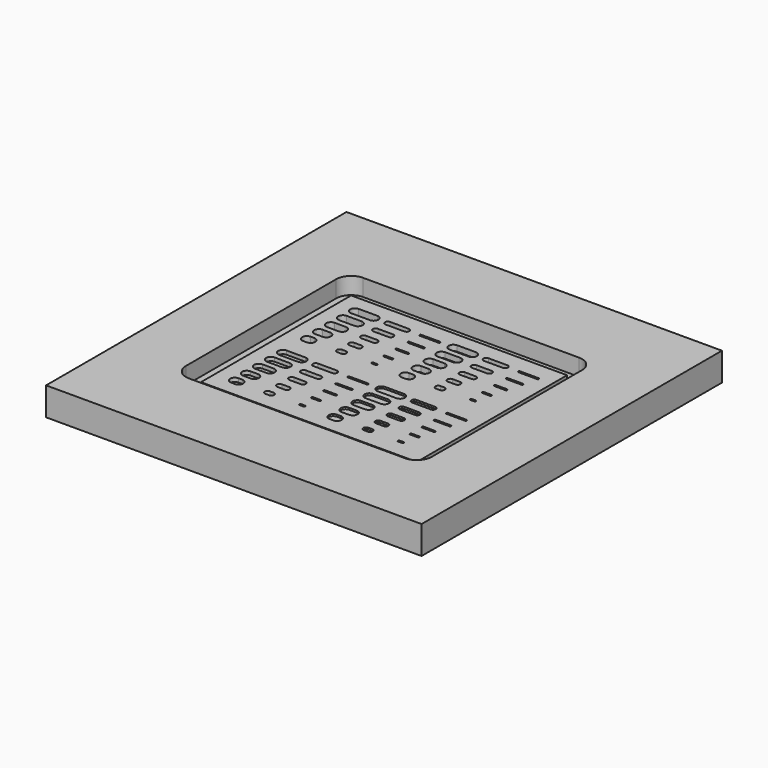
from build123d import *

# Parameters (mm, degrees)
F0_W     = 20
F0_H     = 20
F1_DEPTH = 1
F2_W     = 11.5
F2_H     = 10
F3_DEPTH = 0.4
F4_DEPTH = 0.3
F5_DEPTH = 0.2
F6_DEPTH = 0.1
F2_W_2   = 20
F2_H_2   = 20
F7_DEPTH = 0.5


with BuildPart() as f1:
    # F0 (on Top) → F1 (new body)
    with BuildSketch(Plane.XY):
        Rectangle(F0_W, F0_H)
    extrude(amount=-F1_DEPTH)

    # F2 (on face) → F3 (cut)
    with BuildSketch(Plane.XY):
        with BuildLine():
            ThreePointArc((6.55, 5), (6.315685, 5.565685), (5.75, 5.8))
            Line((5.75, 5.8), (-5.75, 5.8))
            ThreePointArc((-5.75, 5.8), (-6.315685, 5.565685), (-6.55, 5))
            Line((-6.55, 5), (-6.55, -5))
            ThreePointArc((-6.55, -5), (-6.315685, -5.565685), (-5.75, -5.8))
            Line((-5.75, -5.8), (5.75, -5.8))
            ThreePointArc((5.75, -5.8), (6.315685, -5.565685), (6.55, -5))
            Line((6.55, -5), (6.55, 5))
        make_face()
        Rectangle(F2_W, F2_H, mode=Mode.SUBTRACT)
        with BuildLine():
            ThreePointArc((-4.75, 4.25), (-5, 4), (-4.75, 3.75))
            Line((-4.75, 3.75), (-3.75, 3.75))
            ThreePointArc((-3.75, 3.75), (-3.5, 4), (-3.75, 4.25))
            Line((-3.75, 4.25), (-4.75, 4.25))
        make_face()
        with BuildLine():
            ThreePointArc((-4.75, 3.45), (-5, 3.2), (-4.75, 2.95))
            Line((-4.75, 2.95), (-3.95, 2.95))
            ThreePointArc((-3.95, 2.95), (-3.7, 3.2), (-3.95, 3.45))
            Line((-3.95, 3.45), (-4.75, 3.45))
        make_face()
        with BuildLine():
            ThreePointArc((-4.75, 2.65), (-5, 2.4), (-4.75, 2.15))
            Line((-4.75, 2.15), (-4.15, 2.15))
            ThreePointArc((-4.15, 2.15), (-3.9, 2.4), (-4.15, 2.65))
            Line((-4.15, 2.65), (-4.75, 2.65))
        make_face()
        with BuildLine():
            ThreePointArc((-4.75, 1.85), (-5, 1.6), (-4.75, 1.35))
            Line((-4.75, 1.35), (-4.35, 1.35))
            ThreePointArc((-4.35, 1.35), (-4.1, 1.6), (-4.35, 1.85))
            Line((-4.35, 1.85), (-4.75, 1.85))
        make_face()
        with BuildLine():
            ThreePointArc((-4.75, 1.05), (-5, 0.8), (-4.75, 0.55))
            Line((-4.75, 0.55), (-4.55, 0.55))
            ThreePointArc((-4.55, 0.55), (-4.3, 0.8), (-4.55, 1.05))
            Line((-4.55, 1.05), (-4.75, 1.05))
        make_face()
        with BuildLine():
            ThreePointArc((-3, 4.15), (-3.15, 4), (-3, 3.85))
            Line((-3, 3.85), (-2, 3.85))
            ThreePointArc((-2, 3.85), (-1.85, 4), (-2, 4.15))
            Line((-2, 4.15), (-3, 4.15))
        make_face()
        with BuildLine():
            ThreePointArc((-3, 3.35), (-3.15, 3.2), (-3, 3.05))
            Line((-3, 3.05), (-2.2, 3.05))
            ThreePointArc((-2.2, 3.05), (-2.05, 3.2), (-2.2, 3.35))
            Line((-2.2, 3.35), (-3, 3.35))
        make_face()
        with BuildLine():
            ThreePointArc((-3, 2.55), (-3.15, 2.4), (-3, 2.25))
            Line((-3, 2.25), (-2.4, 2.25))
            ThreePointArc((-2.4, 2.25), (-2.25, 2.4), (-2.4, 2.55))
            Line((-2.4, 2.55), (-3, 2.55))
        make_face()
        with BuildLine():
            ThreePointArc((-3, 1.75), (-3.15, 1.6), (-3, 1.45))
            Line((-3, 1.45), (-2.6, 1.45))
            ThreePointArc((-2.6, 1.45), (-2.45, 1.6), (-2.6, 1.75))
            Line((-2.6, 1.75), (-3, 1.75))
        make_face()
        with BuildLine():
            ThreePointArc((-3, 0.95), (-3.15, 0.8), (-3, 0.65))
            Line((-3, 0.65), (-2.8, 0.65))
            ThreePointArc((-2.8, 0.65), (-2.65, 0.8), (-2.8, 0.95))
            Line((-2.8, 0.95), (-3, 0.95))
        make_face()
        with BuildLine():
            ThreePointArc((-1.25, 0.855), (-1.305, 0.8), (-1.25, 0.745))
            Line((-1.25, 0.745), (-1.05, 0.745))
            ThreePointArc((-1.05, 0.745), (-0.995, 0.8), (-1.05, 0.855))
            Line((-1.05, 0.855), (-1.25, 0.855))
        make_face()
        with BuildLine():
            ThreePointArc((-1.25, 1.655), (-1.305, 1.6), (-1.25, 1.545))
            Line((-1.25, 1.545), (-0.85, 1.545))
            ThreePointArc((-0.85, 1.545), (-0.795, 1.6), (-0.85, 1.655))
            Line((-0.85, 1.655), (-1.25, 1.655))
        make_face()
        with BuildLine():
            ThreePointArc((-1.25, 2.455), (-1.305, 2.4), (-1.25, 2.345))
            Line((-1.25, 2.345), (-0.65, 2.345))
            ThreePointArc((-0.65, 2.345), (-0.595, 2.4), (-0.65, 2.455))
            Line((-0.65, 2.455), (-1.25, 2.455))
        make_face()
        with BuildLine():
            ThreePointArc((-1.25, 3.255), (-1.305, 3.2), (-1.25, 3.145))
            Line((-1.25, 3.145), (-0.45, 3.145))
            ThreePointArc((-0.45, 3.145), (-0.395, 3.2), (-0.45, 3.255))
            Line((-0.45, 3.255), (-1.25, 3.255))
        make_face()
        with BuildLine():
            ThreePointArc((-1.25, 4.055), (-1.305, 4), (-1.25, 3.945))
            Line((-1.25, 3.945), (-0.25, 3.945))
            ThreePointArc((-0.25, 3.945), (-0.195, 4), (-0.25, 4.055))
            Line((-0.25, 4.055), (-1.25, 4.055))
        make_face()
    extrude(amount=-F3_DEPTH, mode=Mode.SUBTRACT)

    # F2 (on face) → F4 (cut)
    with BuildSketch(Plane.XY):
        with BuildLine():
            ThreePointArc((0.5, 4.25), (0.25, 4), (0.5, 3.75))
            Line((0.5, 3.75), (1.5, 3.75))
            ThreePointArc((1.5, 3.75), (1.75, 4), (1.5, 4.25))
            Line((1.5, 4.25), (0.5, 4.25))
        make_face()
        with BuildLine():
            ThreePointArc((2.25, 4.15), (2.1, 4), (2.25, 3.85))
            Line((2.25, 3.85), (3.25, 3.85))
            ThreePointArc((3.25, 3.85), (3.4, 4), (3.25, 4.15))
            Line((3.25, 4.15), (2.25, 4.15))
        make_face()
        with BuildLine():
            Line((5, 4.055), (4, 4.055))
            ThreePointArc((4, 4.055), (3.945, 4), (4, 3.945))
            Line((4, 3.945), (5, 3.945))
            ThreePointArc((5, 3.945), (5.055, 4), (5, 4.055))
        make_face()
        with BuildLine():
            Line((4.8, 3.255), (4, 3.255))
            ThreePointArc((4, 3.255), (3.945, 3.2), (4, 3.145))
            Line((4, 3.145), (4.8, 3.145))
            ThreePointArc((4.8, 3.145), (4.855, 3.2), (4.8, 3.255))
        make_face()
        with BuildLine():
            ThreePointArc((2.25, 3.35), (2.1, 3.2), (2.25, 3.05))
            Line((2.25, 3.05), (3.05, 3.05))
            ThreePointArc((3.05, 3.05), (3.2, 3.2), (3.05, 3.35))
            Line((3.05, 3.35), (2.25, 3.35))
        make_face()
        with BuildLine():
            ThreePointArc((0.5, 3.45), (0.25, 3.2), (0.5, 2.95))
            Line((0.5, 2.95), (1.3, 2.95))
            ThreePointArc((1.3, 2.95), (1.55, 3.2), (1.3, 3.45))
            Line((1.3, 3.45), (0.5, 3.45))
        make_face()
        with BuildLine():
            ThreePointArc((0.5, 2.65), (0.25, 2.4), (0.5, 2.15))
            Line((0.5, 2.15), (1.1, 2.15))
            ThreePointArc((1.1, 2.15), (1.35, 2.4), (1.1, 2.65))
            Line((1.1, 2.65), (0.5, 2.65))
        make_face()
        with BuildLine():
            ThreePointArc((2.85, 2.25), (3, 2.4), (2.85, 2.55))
            Line((2.85, 2.55), (2.25, 2.55))
            ThreePointArc((2.25, 2.55), (2.1, 2.4), (2.25, 2.25))
            Line((2.25, 2.25), (2.85, 2.25))
        make_face()
        with BuildLine():
            ThreePointArc((4, 2.455), (3.945, 2.4), (4, 2.345))
            Line((4, 2.345), (4.6, 2.345))
            ThreePointArc((4.6, 2.345), (4.655, 2.4), (4.6, 2.455))
            Line((4.6, 2.455), (4, 2.455))
        make_face()
        with BuildLine():
            ThreePointArc((4.4, 1.545), (4.455, 1.6), (4.4, 1.655))
            Line((4.4, 1.655), (4, 1.655))
            ThreePointArc((4, 1.655), (3.945, 1.6), (4, 1.545))
            Line((4, 1.545), (4.4, 1.545))
        make_face()
        with BuildLine():
            ThreePointArc((2.65, 1.45), (2.8, 1.6), (2.65, 1.75))
            Line((2.65, 1.75), (2.25, 1.75))
            ThreePointArc((2.25, 1.75), (2.1, 1.6), (2.25, 1.45))
            Line((2.25, 1.45), (2.65, 1.45))
        make_face()
        with BuildLine():
            ThreePointArc((0.9, 1.35), (1.15, 1.6), (0.9, 1.85))
            Line((0.9, 1.85), (0.5, 1.85))
            ThreePointArc((0.5, 1.85), (0.25, 1.6), (0.5, 1.35))
            Line((0.5, 1.35), (0.9, 1.35))
        make_face()
        with BuildLine():
            ThreePointArc((0.5, 1.05), (0.25, 0.8), (0.5, 0.55))
            Line((0.5, 0.55), (0.7, 0.55))
            ThreePointArc((0.7, 0.55), (0.95, 0.8), (0.7, 1.05))
            Line((0.7, 1.05), (0.5, 1.05))
        make_face()
        with BuildLine():
            ThreePointArc((2.25, 0.95), (2.1, 0.8), (2.25, 0.65))
            Line((2.25, 0.65), (2.45, 0.65))
            ThreePointArc((2.45, 0.65), (2.6, 0.8), (2.45, 0.95))
            Line((2.45, 0.95), (2.25, 0.95))
        make_face()
        with BuildLine():
            ThreePointArc((4.2, 0.745), (4.255, 0.8), (4.2, 0.855))
            Line((4.2, 0.855), (4, 0.855))
            ThreePointArc((4, 0.855), (3.945, 0.8), (4, 0.745))
            Line((4, 0.745), (4.2, 0.745))
        make_face()
    extrude(amount=-F4_DEPTH, mode=Mode.SUBTRACT)

    # F2 (on face) → F5 (cut)
    with BuildSketch(Plane.XY):
        with BuildLine():
            ThreePointArc((-4.75, -0.55), (-5, -0.8), (-4.75, -1.05))
            Line((-4.75, -1.05), (-3.75, -1.05))
            ThreePointArc((-3.75, -1.05), (-3.5, -0.8), (-3.75, -0.55))
            Line((-3.75, -0.55), (-4.75, -0.55))
        make_face()
        with BuildLine():
            ThreePointArc((-3, -0.65), (-3.15, -0.8), (-3, -0.95))
            Line((-3, -0.95), (-2, -0.95))
            ThreePointArc((-2, -0.95), (-1.85, -0.8), (-2, -0.65))
            Line((-2, -0.65), (-3, -0.65))
        make_face()
        with BuildLine():
            Line((-0.25, -0.745), (-1.25, -0.745))
            ThreePointArc((-1.25, -0.745), (-1.305, -0.8), (-1.25, -0.855))
            Line((-1.25, -0.855), (-0.25, -0.855))
            ThreePointArc((-0.25, -0.855), (-0.195, -0.8), (-0.25, -0.745))
        make_face()
        with BuildLine():
            ThreePointArc((-4.75, -1.35), (-5, -1.6), (-4.75, -1.85))
            Line((-4.75, -1.85), (-3.95, -1.85))
            ThreePointArc((-3.95, -1.85), (-3.7, -1.6), (-3.95, -1.35))
            Line((-3.95, -1.35), (-4.75, -1.35))
        make_face()
        with BuildLine():
            ThreePointArc((-3, -1.45), (-3.15, -1.6), (-3, -1.75))
            Line((-3, -1.75), (-2.2, -1.75))
            ThreePointArc((-2.2, -1.75), (-2.05, -1.6), (-2.2, -1.45))
            Line((-2.2, -1.45), (-3, -1.45))
        make_face()
        with BuildLine():
            Line((-0.45, -1.545), (-1.25, -1.545))
            ThreePointArc((-1.25, -1.545), (-1.305, -1.6), (-1.25, -1.655))
            Line((-1.25, -1.655), (-0.45, -1.655))
            ThreePointArc((-0.45, -1.655), (-0.395, -1.6), (-0.45, -1.545))
        make_face()
        with BuildLine():
            ThreePointArc((-4.75, -2.15), (-5, -2.4), (-4.75, -2.65))
            Line((-4.75, -2.65), (-4.15, -2.65))
            ThreePointArc((-4.15, -2.65), (-3.9, -2.4), (-4.15, -2.15))
            Line((-4.15, -2.15), (-4.75, -2.15))
        make_face()
        with BuildLine():
            ThreePointArc((-2.4, -2.55), (-2.25, -2.4), (-2.4, -2.25))
            Line((-2.4, -2.25), (-3, -2.25))
            ThreePointArc((-3, -2.25), (-3.15, -2.4), (-3, -2.55))
            Line((-3, -2.55), (-2.4, -2.55))
        make_face()
        with BuildLine():
            ThreePointArc((-1.25, -2.345), (-1.305, -2.4), (-1.25, -2.455))
            Line((-1.25, -2.455), (-0.65, -2.455))
            ThreePointArc((-0.65, -2.455), (-0.595, -2.4), (-0.65, -2.345))
            Line((-0.65, -2.345), (-1.25, -2.345))
        make_face()
        with BuildLine():
            ThreePointArc((-4.35, -3.45), (-4.1, -3.2), (-4.35, -2.95))
            Line((-4.35, -2.95), (-4.75, -2.95))
            ThreePointArc((-4.75, -2.95), (-5, -3.2), (-4.75, -3.45))
            Line((-4.75, -3.45), (-4.35, -3.45))
        make_face()
        with BuildLine():
            ThreePointArc((-2.6, -3.35), (-2.45, -3.2), (-2.6, -3.05))
            Line((-2.6, -3.05), (-3, -3.05))
            ThreePointArc((-3, -3.05), (-3.15, -3.2), (-3, -3.35))
            Line((-3, -3.35), (-2.6, -3.35))
        make_face()
        with BuildLine():
            ThreePointArc((-0.85, -3.255), (-0.795, -3.2), (-0.85, -3.145))
            Line((-0.85, -3.145), (-1.25, -3.145))
            ThreePointArc((-1.25, -3.145), (-1.305, -3.2), (-1.25, -3.255))
            Line((-1.25, -3.255), (-0.85, -3.255))
        make_face()
        with BuildLine():
            ThreePointArc((-4.75, -3.75), (-5, -4), (-4.75, -4.25))
            Line((-4.75, -4.25), (-4.55, -4.25))
            ThreePointArc((-4.55, -4.25), (-4.3, -4), (-4.55, -3.75))
            Line((-4.55, -3.75), (-4.75, -3.75))
        make_face()
        with BuildLine():
            ThreePointArc((-3, -3.85), (-3.15, -4), (-3, -4.15))
            Line((-3, -4.15), (-2.8, -4.15))
            ThreePointArc((-2.8, -4.15), (-2.65, -4), (-2.8, -3.85))
            Line((-2.8, -3.85), (-3, -3.85))
        make_face()
        with BuildLine():
            ThreePointArc((-1.05, -4.055), (-0.995, -4), (-1.05, -3.945))
            Line((-1.05, -3.945), (-1.25, -3.945))
            ThreePointArc((-1.25, -3.945), (-1.305, -4), (-1.25, -4.055))
            Line((-1.25, -4.055), (-1.05, -4.055))
        make_face()
    extrude(amount=-F5_DEPTH, mode=Mode.SUBTRACT)

    # F2 (on face) → F6 (cut)
    with BuildSketch(Plane.XY):
        with BuildLine():
            ThreePointArc((0.5, -0.55), (0.25, -0.8), (0.5, -1.05))
            Line((0.5, -1.05), (1.5, -1.05))
            ThreePointArc((1.5, -1.05), (1.75, -0.8), (1.5, -0.55))
            Line((1.5, -0.55), (0.5, -0.55))
        make_face()
        with BuildLine():
            ThreePointArc((2.25, -0.65), (2.1, -0.8), (2.25, -0.95))
            Line((2.25, -0.95), (3.25, -0.95))
            ThreePointArc((3.25, -0.95), (3.4, -0.8), (3.25, -0.65))
            Line((3.25, -0.65), (2.25, -0.65))
        make_face()
        with BuildLine():
            Line((5, -0.745), (4, -0.745))
            ThreePointArc((4, -0.745), (3.945, -0.8), (4, -0.855))
            Line((4, -0.855), (5, -0.855))
            ThreePointArc((5, -0.855), (5.055, -0.8), (5, -0.745))
        make_face()
        with BuildLine():
            ThreePointArc((0.5, -1.35), (0.25, -1.6), (0.5, -1.85))
            Line((0.5, -1.85), (1.3, -1.85))
            ThreePointArc((1.3, -1.85), (1.55, -1.6), (1.3, -1.35))
            Line((1.3, -1.35), (0.5, -1.35))
        make_face()
        with BuildLine():
            ThreePointArc((2.25, -1.45), (2.1, -1.6), (2.25, -1.75))
            Line((2.25, -1.75), (3.05, -1.75))
            ThreePointArc((3.05, -1.75), (3.2, -1.6), (3.05, -1.45))
            Line((3.05, -1.45), (2.25, -1.45))
        make_face()
        with BuildLine():
            Line((4.8, -1.545), (4, -1.545))
            ThreePointArc((4, -1.545), (3.945, -1.6), (4, -1.655))
            Line((4, -1.655), (4.8, -1.655))
            ThreePointArc((4.8, -1.655), (4.855, -1.6), (4.8, -1.545))
        make_face()
        with BuildLine():
            ThreePointArc((0.5, -2.15), (0.25, -2.4), (0.5, -2.65))
            Line((0.5, -2.65), (1.1, -2.65))
            ThreePointArc((1.1, -2.65), (1.35, -2.4), (1.1, -2.15))
            Line((1.1, -2.15), (0.5, -2.15))
        make_face()
        with BuildLine():
            ThreePointArc((2.85, -2.55), (3, -2.4), (2.85, -2.25))
            Line((2.85, -2.25), (2.25, -2.25))
            ThreePointArc((2.25, -2.25), (2.1, -2.4), (2.25, -2.55))
            Line((2.25, -2.55), (2.85, -2.55))
        make_face()
        with BuildLine():
            ThreePointArc((4, -2.345), (3.945, -2.4), (4, -2.455))
            Line((4, -2.455), (4.6, -2.455))
            ThreePointArc((4.6, -2.455), (4.655, -2.4), (4.6, -2.345))
            Line((4.6, -2.345), (4, -2.345))
        make_face()
        with BuildLine():
            ThreePointArc((0.9, -3.45), (1.15, -3.2), (0.9, -2.95))
            Line((0.9, -2.95), (0.5, -2.95))
            ThreePointArc((0.5, -2.95), (0.25, -3.2), (0.5, -3.45))
            Line((0.5, -3.45), (0.9, -3.45))
        make_face()
        with BuildLine():
            ThreePointArc((2.65, -3.35), (2.8, -3.2), (2.65, -3.05))
            Line((2.65, -3.05), (2.25, -3.05))
            ThreePointArc((2.25, -3.05), (2.1, -3.2), (2.25, -3.35))
            Line((2.25, -3.35), (2.65, -3.35))
        make_face()
        with BuildLine():
            ThreePointArc((4.4, -3.255), (4.455, -3.2), (4.4, -3.145))
            Line((4.4, -3.145), (4, -3.145))
            ThreePointArc((4, -3.145), (3.945, -3.2), (4, -3.255))
            Line((4, -3.255), (4.4, -3.255))
        make_face()
        with BuildLine():
            ThreePointArc((0.5, -3.75), (0.25, -4), (0.5, -4.25))
            Line((0.5, -4.25), (0.7, -4.25))
            ThreePointArc((0.7, -4.25), (0.95, -4), (0.7, -3.75))
            Line((0.7, -3.75), (0.5, -3.75))
        make_face()
        with BuildLine():
            ThreePointArc((2.25, -3.85), (2.1, -4), (2.25, -4.15))
            Line((2.25, -4.15), (2.45, -4.15))
            ThreePointArc((2.45, -4.15), (2.6, -4), (2.45, -3.85))
            Line((2.45, -3.85), (2.25, -3.85))
        make_face()
        with BuildLine():
            ThreePointArc((4.2, -4.055), (4.255, -4), (4.2, -3.945))
            Line((4.2, -3.945), (4, -3.945))
            ThreePointArc((4, -3.945), (3.945, -4), (4, -4.055))
            Line((4, -4.055), (4.2, -4.055))
        make_face()
    extrude(amount=-F6_DEPTH, mode=Mode.SUBTRACT)

    # F2 (on face) → F7 (join)
    with BuildSketch(Plane.XY):
        Rectangle(F2_W_2, F2_H_2)
        with BuildLine():
            Line((-5.75, 5.8), (5.75, 5.8))
            ThreePointArc((5.75, 5.8), (6.315685, 5.565685), (6.55, 5))
            Line((6.55, 5), (6.55, -5))
            ThreePointArc((6.55, -5), (6.315685, -5.565685), (5.75, -5.8))
            Line((5.75, -5.8), (-5.75, -5.8))
            ThreePointArc((-5.75, -5.8), (-6.315685, -5.565685), (-6.55, -5))
            Line((-6.55, -5), (-6.55, 5))
            ThreePointArc((-6.55, 5), (-6.315685, 5.565685), (-5.75, 5.8))
        make_face(mode=Mode.SUBTRACT)
    extrude(amount=F7_DEPTH)


solid = f1.part
